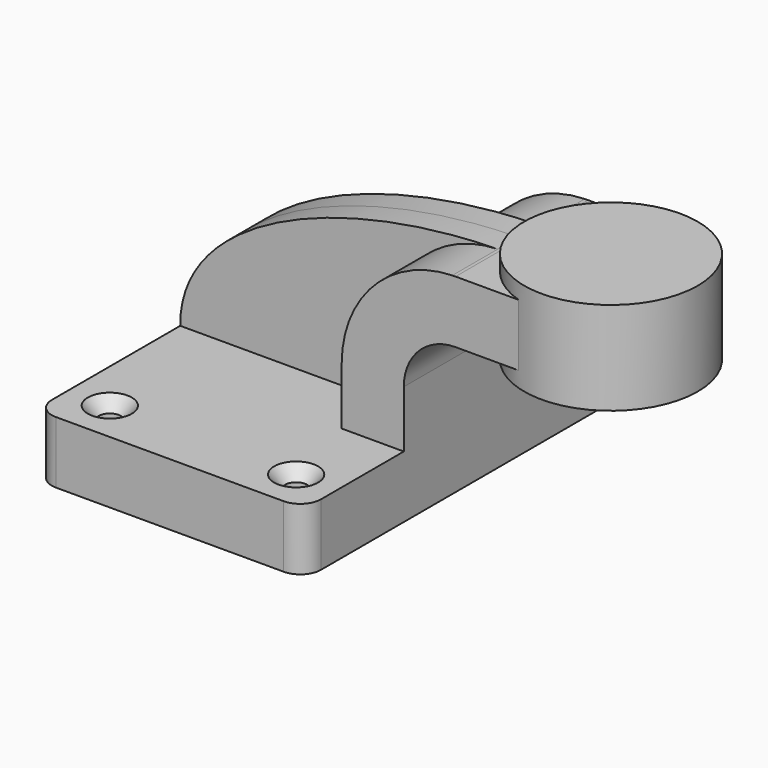
from build123d import *

# Parameters (mm, degrees)
F1_DEPTH       = 63.5
F0_W           = 24.1773966307
F0_H           = 19.05
F2_DEPTH       = 25.4
F3_DEPTH       = 7.9375
F5_R           = 6.35
F7_D           = 6.7564
F7_CSINK_D     = 13.4874
F7_CSINK_ANGLE = 82


with BuildPart() as f1:
    # F0 (on Front) → F1 (new body, symmetric)
    with BuildSketch(Plane.XZ):
        Polygon((22.225, 9.525), (-41.275, 9.525), (-41.275, -9.525), (41.275, -9.525), (41.275, 9.525), align=None)
    extrude(amount=F1_DEPTH, both=True)

    # F0 (on Front) → F2 (join, symmetric)
    with BuildSketch(Plane.XZ):
        with BuildLine():
            Line((22.225, 27.0002), (22.225, 9.525))
            Line((22.225, 9.525), (41.275, 9.525))
            Line((41.275, 9.525), (41.275, 27.0002))
            ThreePointArc((41.275, 27.0002), (45.9246798487, 38.2255201513), (57.15, 42.8752))
            Line((57.15, 42.8752), (60.325, 42.8752))
            Line((60.325, 42.8752), (60.325, 61.9252))
            Line((60.325, 61.9252), (57.15, 61.9252))
            add(Edge.make_bspline(
                [(56.1585534781, 61.9111246339), (56.4889663623, 61.9166719821), (56.8194531057, 61.9213645655), (57.15, 61.9252)],
                knots=[110.7679621102, 110.7679621102, 110.7679621102, 110.7679621102, 111.5045361635, 111.5045361635, 111.5045361635, 111.5045361635], degree=3))
            ThreePointArc((56.1585534781, 61.9111246339), (32.1062193871, 51.3428514088), (22.225, 27.0002))
        make_face()
        with Locations((72.4136983154, 52.4002)):
            Rectangle(F0_W, F0_H)
    extrude(amount=F2_DEPTH, both=True)

    # F0 (on Front) → F3 (join, symmetric)
    with BuildSketch(Plane.XZ):
        with BuildLine():
            add(Edge.make_bspline(
                [(-41.275, 9.525), (-41.5478571248, 40.9122167506), (6.4701865541, 61.0768996786), (56.1585534781, 61.9111246339)],
                knots=[0, 0, 0, 0, 110.7679621102, 110.7679621102, 110.7679621102, 110.7679621102], degree=3))
            Line((-41.275, 9.525), (22.225, 9.525))
            Line((22.225, 9.525), (22.225, 27.0002))
            ThreePointArc((22.225, 27.0002), (32.1062193871, 51.3428514088), (56.1585534781, 61.9111246339))
        make_face()
    extrude(amount=F3_DEPTH, both=True)

    # F0 (on Front) → F4 (revolve)
    with BuildSketch(Plane.XZ):
        Polygon((84.5023966307, 66.675), (84.5023966307, 61.9252), (84.5023966307, 42.8752), (84.5023966307, 38.1), (111.125, 38.1), (111.125, 66.675), align=None)
    revolve(axis=Axis((84.5023966307, 0, 52.3875), (0, 0, 1)))

    # F5
    f5_edges = [f1.edges().sort_by_distance(p)[0] for p in [
        (-41.275, -63.5, 0),
        (41.275, -63.5, 0),
        (-41.275, 63.5, 0),
        (41.275, 63.5, 0),
    ]]
    fillet(f5_edges, radius=F5_R)

    # F7 (through all)
    with Locations(Plane.XY.offset(9.525)):
        with Locations((-28.575, 50.8), (28.575, 50.8), (-28.575, -50.8), (28.575, -50.8)):
            CounterSinkHole(F7_D / 2, F7_CSINK_D / 2, counter_sink_angle=F7_CSINK_ANGLE)


solid = f1.part
